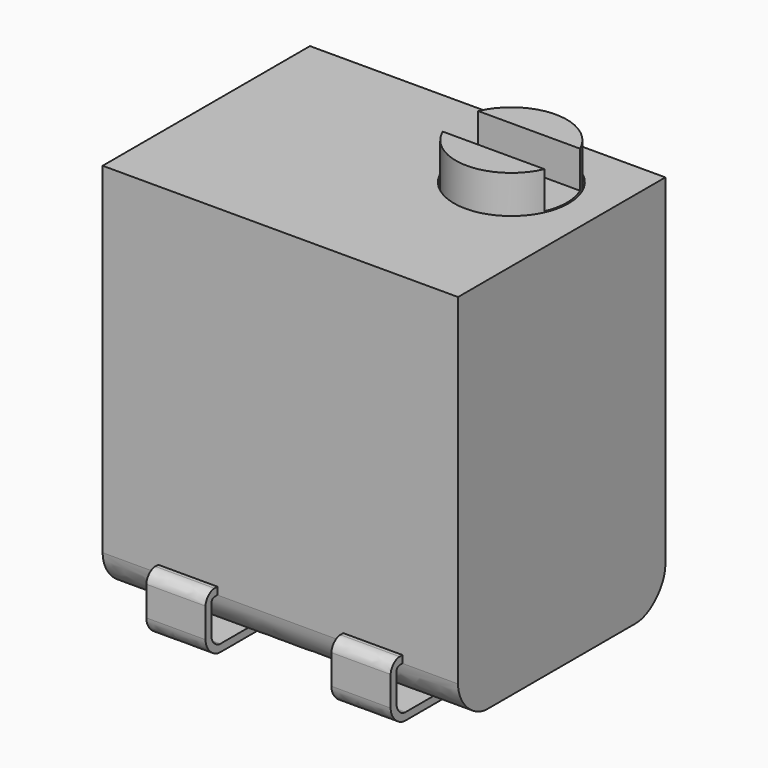
from build123d import *

# Parameters (mm, degrees)
PAD_DEPTH               = 0.8
PAD001_DEPTH            = 1.3
BODY001_PLACEMENT_ANGLE = 180
PAD002_DEPTH            = 0.8
PAD003_DEPTH            = 4.8
SKETCH004_R             = 0.775
POCKET_DEPTH            = 1
SKETCH005_R             = 0.75
PAD004_DEPTH            = 2.6
SKETCH006_W             = 10
SKETCH006_H             = 0.6
POCKET001_DEPTH         = 0.5


with BuildPart() as body:
    # Sketch → Pad (new body)
    with BuildSketch(Plane.YZ):
        with BuildLine():
            Line((-0.75, 0.1), (0, 0.1))
            Line((0, 0.1), (0, 0))
            Line((0, 0), (-0.75, 0))
            add(Edge.make_bspline(
                [(-0.75, 0), (-0.875, 0), (-1, 0.125), (-1, 0.25)],
                knots=[0, 0, 0, 0, 1, 1, 1, 1], degree=3))
            Line((-1, 0.25), (-1, 0.65))
            add(Edge.make_bspline(
                [(-1, 0.65), (-1, 0.725), (-0.925, 0.8), (-0.85, 0.8)],
                knots=[0, 0, 0, 0, 1, 1, 1, 1], degree=3))
            Line((-0.85, 0.8), (-0.6, 0.8))
            Line((-0.6, 0.8), (-0.6, 0.7))
            Line((-0.6, 0.7), (-0.85, 0.7))
            add(Edge.make_bspline(
                [(-0.9, 0.65), (-0.9, 0.675), (-0.875, 0.7), (-0.85, 0.7)],
                knots=[0, 0, 0, 0, 1, 1, 1, 1], degree=3))
            Line((-0.9, 0.65), (-0.9, 0.25))
            add(Edge.make_bspline(
                [(-0.75, 0.1), (-0.825, 0.1), (-0.9, 0.175), (-0.9, 0.25)],
                knots=[0, 0, 0, 0, 1, 1, 1, 1], degree=3))
        make_face()
    extrude(amount=PAD_DEPTH)


with BuildPart() as body_1:
    # Body placement: moved
    add(body.part.moved(Location((-1.65, -0.95, 0))))


with BuildPart() as body001:
    # Sketch001 → Pad001 (new body)
    with BuildSketch(Plane.YZ):
        with BuildLine():
            Line((-0.75, 0.1), (0, 0.1))
            Line((0, 0.1), (0, 0))
            Line((0, 0), (-0.75, 0))
            add(Edge.make_bspline(
                [(-0.75, 0), (-0.875, 0), (-1, 0.125), (-1, 0.25)],
                knots=[0, 0, 0, 0, 1, 1, 1, 1], degree=3))
            Line((-1, 0.25), (-1, 0.65))
            add(Edge.make_bspline(
                [(-1, 0.65), (-1, 0.725), (-0.925, 0.8), (-0.85, 0.8)],
                knots=[0, 0, 0, 0, 1, 1, 1, 1], degree=3))
            Line((-0.85, 0.8), (-0.6, 0.8))
            Line((-0.6, 0.8), (-0.6, 0.7))
            Line((-0.6, 0.7), (-0.85, 0.7))
            add(Edge.make_bspline(
                [(-0.9, 0.65), (-0.9, 0.675), (-0.875, 0.7), (-0.85, 0.7)],
                knots=[0, 0, 0, 0, 1, 1, 1, 1], degree=3))
            Line((-0.9, 0.65), (-0.9, 0.25))
            add(Edge.make_bspline(
                [(-0.75, 0.1), (-0.825, 0.1), (-0.9, 0.175), (-0.9, 0.25)],
                knots=[0, 0, 0, 0, 1, 1, 1, 1], degree=3))
        make_face()
    extrude(amount=PAD001_DEPTH)


with BuildPart() as body001_1:
    # Body001 placement: moved
    add(body001.part.moved(Location((0.65, 0.95, 0))).rotate(Axis((0.65, 0.95, 0), (0, 0, 1)), BODY001_PLACEMENT_ANGLE))


with BuildPart() as body002:
    # Sketch002 → Pad002 (new body)
    with BuildSketch(Plane.YZ):
        with BuildLine():
            Line((-0.75, 0.1), (0, 0.1))
            Line((0, 0.1), (0, 0))
            Line((0, 0), (-0.75, 0))
            add(Edge.make_bspline(
                [(-0.75, 0), (-0.875, 0), (-1, 0.125), (-1, 0.25)],
                knots=[0, 0, 0, 0, 1, 1, 1, 1], degree=3))
            Line((-1, 0.25), (-1, 0.65))
            add(Edge.make_bspline(
                [(-1, 0.65), (-1, 0.725), (-0.925, 0.8), (-0.85, 0.8)],
                knots=[0, 0, 0, 0, 1, 1, 1, 1], degree=3))
            Line((-0.85, 0.8), (-0.6, 0.8))
            Line((-0.6, 0.8), (-0.6, 0.7))
            Line((-0.6, 0.7), (-0.85, 0.7))
            add(Edge.make_bspline(
                [(-0.9, 0.65), (-0.9, 0.675), (-0.875, 0.7), (-0.85, 0.7)],
                knots=[0, 0, 0, 0, 1, 1, 1, 1], degree=3))
            Line((-0.9, 0.65), (-0.9, 0.25))
            add(Edge.make_bspline(
                [(-0.75, 0.1), (-0.825, 0.1), (-0.9, 0.175), (-0.9, 0.25)],
                knots=[0, 0, 0, 0, 1, 1, 1, 1], degree=3))
        make_face()
    extrude(amount=PAD002_DEPTH)


with BuildPart() as body002_1:
    # Body002 placement: moved
    add(body002.part.moved(Location((0.85, -0.95, 0))))


with BuildPart() as body_3214w:
    # Sketch003 → Pad003 (new body)
    with BuildSketch(Plane.YZ):
        with BuildLine():
            add(Edge.make_bspline(
                [(-1.75, 0.5), (-1.75, 0.25), (-1.5, 0), (-1.25, 0)],
                knots=[0, 0, 0, 0, 1, 1, 1, 1], degree=3))
            Line((-1.75, 0.5), (-1.75, 5.1))
            Line((-1.75, 5.1), (1.75, 5.1))
            Line((1.75, 5.1), (1.75, 0.5))
            add(Edge.make_bspline(
                [(1.75, 0.5), (1.75, 0.25), (1.5, 0), (1.25, 0)],
                knots=[0, 0, 0, 0, 1, 1, 1, 1], degree=3))
            Line((1.25, 0), (-1.25, 0))
        make_face()
    extrude(amount=PAD003_DEPTH)

    # Sketch004 (on Face3 of Pad003) → Pocket (cut)
    with BuildSketch(Plane(origin=(0, 0, 5.1), x_dir=(0, -1, 0), z_dir=(0, 0, 1))):
        with Locations((-0.65, 3.6)):
            Circle(SKETCH004_R)
    extrude(amount=-POCKET_DEPTH, mode=Mode.SUBTRACT)


with BuildPart() as body_3214w_1:
    # Body003 placement: moved
    add(body_3214w.part.moved(Location((-2.4, 0, 0.2))))


with BuildPart() as adjust_screw:
    # Sketch005 → Pad004 (new body)
    with BuildSketch(Plane.XY):
        Circle(SKETCH005_R)
    extrude(amount=PAD004_DEPTH)

    # Sketch006 (on Face3 of Pad004) → Pocket001 (cut)
    with BuildSketch(Plane.XY.offset(2.6)):
        Rectangle(SKETCH006_W, SKETCH006_H)
    extrude(amount=-POCKET001_DEPTH, mode=Mode.SUBTRACT)


with BuildPart() as adjust_screw_1:
    # Body004 placement: moved
    add(adjust_screw.part.moved(Location((1.2, 0.65, 3.2))))


solid = Compound([body_1.part, body001_1.part, body002_1.part, body_3214w_1.part, adjust_screw_1.part])
